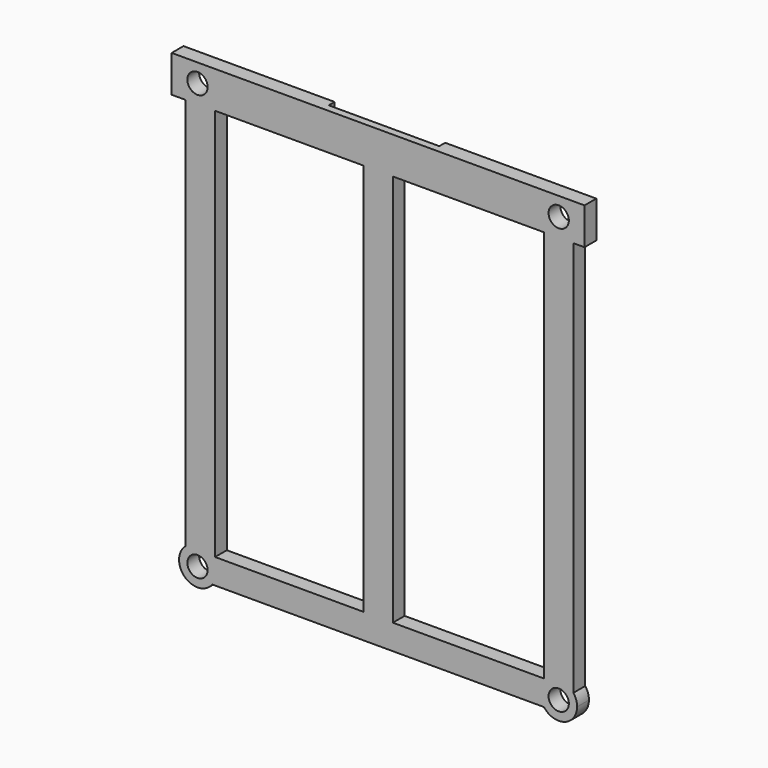
from build123d import *

# Parameters (mm, degrees)
F1_W     = 56
F1_H     = 5
F1_R     = 1.375
F2_DEPTH = 2
F0_W     = 15
F0_H     = 3
F3_DEPTH = 1
F4_R     = 1.375
F4_W     = 4
F4_H     = 53.2898265516
F5_DEPTH = 2


with BuildPart() as f2:
    # F1 (on Front) → F2 (new body)
    with BuildSketch(Plane.XZ):
        with Locations((0.7514315657, 15.9062612424)):
            Rectangle(F1_W, F1_H)
        with Locations((-23.7485684343, 15.9062612424)):
            Circle(F1_R, mode=Mode.SUBTRACT)
        with Locations((25.2514315657, 15.9062612424)):
            Circle(F1_R, mode=Mode.SUBTRACT)
    extrude(amount=F2_DEPTH)

    # F0 (on Front) → F3 (cut)
    with BuildSketch(Plane.XZ):
        with Locations((0.7514315657, 16.9062612424)):
            Rectangle(F0_W, F0_H)
    extrude(amount=F3_DEPTH, mode=Mode.SUBTRACT)

    # F4 (on Front) → F5 (join)
    with BuildSketch(Plane.XZ):
        with BuildLine():
            Line((-22.1303412057, -39.8835653092), (-25.3667956628, -39.8835653092))
            ThreePointArc((-25.3667956628, -39.8835653092), (-25.4620381693, -43.6096183945), (-21.7485684343, -43.289172991))
            ThreePointArc((-21.7485684343, -43.289172991), (-21.3768601891, -42.579742406), (-21.2485684343, -41.789172991))
            ThreePointArc((-21.2485684343, -41.789172991), (-21.4796955785, -40.7393082548), (-22.1303412057, -39.8835653092))
        make_face()
        with Locations((-23.7485684343, -41.789172991)):
            Circle(F4_R, mode=Mode.SUBTRACT)
        with BuildLine():
            Line((-25.3667956628, 13.6541156098), (-25.3667956628, -39.8835653092))
            ThreePointArc((-25.3667956628, -39.8835653092), (-23.7485684343, -39.289172991), (-22.1303412057, -39.8835653092))
            Line((-22.1303412057, -39.8835653092), (-21.3667956628, -39.8835653092))
            Line((-21.3667956628, -39.8835653092), (-21.3667956628, 9.7079015317))
            Line((-21.3667956628, 9.7079015317), (-21.3667956628, 13.6541156098))
            Line((-21.3667956628, 13.6541156098), (-25.3667956628, 13.6541156098))
        make_face()
        with BuildLine():
            ThreePointArc((-22.1303412057, -39.8835653092), (-23.7485684343, -39.289172991), (-25.3667956628, -39.8835653092))
            Line((-25.3667956628, -39.8835653092), (-22.1303412057, -39.8835653092))
        make_face()
        with BuildLine():
            ThreePointArc((-21.2485684343, -41.789172991), (-21.3768601891, -42.579742406), (-21.7485684343, -43.289172991))
            Line((-21.7485684343, -43.289172991), (-21.3667956628, -43.289172991))
            Line((-21.3667956628, -43.289172991), (23.2514315657, -43.289172991))
            ThreePointArc((23.2514315657, -43.289172991), (22.7514315657, -41.789172991), (23.2514315657, -40.289172991))
            Line((23.2514315657, -40.289172991), (23.2514315657, -39.8835653092))
            Line((23.2514315657, -39.8835653092), (20.2613644372, -39.8835653092))
            Line((20.2613644372, -39.8835653092), (2.7514315657, -39.8835653092))
            Line((2.7514315657, -39.8835653092), (-1.2485684343, -39.8835653092))
            Line((-1.2485684343, -39.8835653092), (-21.3667956628, -39.8835653092))
            Line((-21.3667956628, -39.8835653092), (-22.1303412057, -39.8835653092))
            ThreePointArc((-22.1303412057, -39.8835653092), (-21.4796955785, -40.7393082548), (-21.2485684343, -41.789172991))
        make_face()
        with BuildLine():
            Line((23.3217352043, -43.3785980293), (23.2514315657, -43.289172991))
            ThreePointArc((23.2514315657, -43.289172991), (23.2860747069, -43.3342854197), (23.3217352043, -43.3785980293))
        make_face()
        with BuildLine():
            ThreePointArc((23.2514315657, -40.289172991), (22.7514315657, -41.789172991), (23.2514315657, -43.289172991))
            Line((23.2514315657, -43.289172991), (23.2514315657, -40.289172991))
        make_face()
        with BuildLine():
            Line((23.2514315657, -40.289172991), (23.2514315657, -43.289172991))
            Line((23.2514315657, -43.289172991), (23.3217352043, -43.3785980293))
            ThreePointArc((23.3217352043, -43.3785980293), (26.0957535115, -44.1422816693), (27.7514315657, -41.789172991))
            ThreePointArc((27.7514315657, -41.789172991), (27.6231398109, -40.998603576), (27.2514315657, -40.289172991))
            Line((27.2514315657, -40.289172991), (23.2514315657, -40.289172991))
        make_face()
        with Locations((25.2514315657, -41.789172991)):
            Circle(F4_R, mode=Mode.SUBTRACT)
        with Locations((0.7514315657, -13.2386520334)):
            Rectangle(F4_W, F4_H)
        with BuildLine():
            Line((23.2514315657, -39.8835653092), (23.2514315657, -40.289172991))
            ThreePointArc((23.2514315657, -40.289172991), (25.2514315657, -39.289172991), (27.2514315657, -40.289172991))
            Line((27.2514315657, -40.289172991), (27.2514315657, 13.6541156098))
            Line((27.2514315657, 13.6541156098), (23.2514315657, 13.6541156098))
            Line((23.2514315657, 13.6541156098), (23.2514315657, -35.9635577695))
            Line((23.2514315657, -35.9635577695), (23.2514315657, -39.8835653092))
        make_face()
        with BuildLine():
            ThreePointArc((27.2514315657, -40.289172991), (25.2514315657, -39.289172991), (23.2514315657, -40.289172991))
            Line((23.2514315657, -40.289172991), (27.2514315657, -40.289172991))
        make_face()
    extrude(amount=F5_DEPTH)


solid = f2.part
